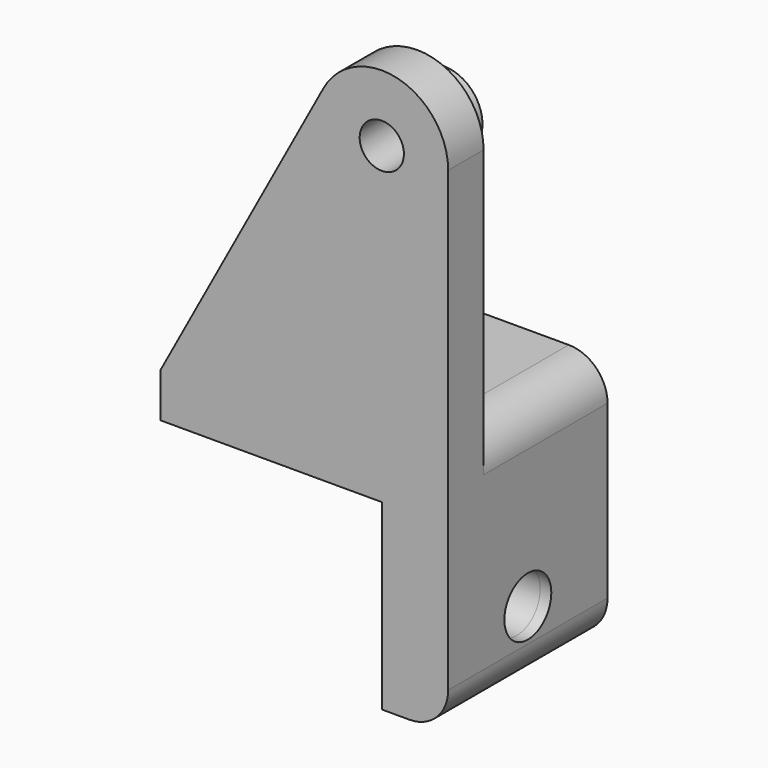
from build123d import *

# Parameters (mm, degrees)
PAD013_DEPTH         = 9
POCKET017_DEPTH      = 14.001
SKETCH042_R          = 3.5
PAD014_DEPTH         = 3
SKETCH044_R          = 2
POCKET018_DEPTH      = 4.001
POCKET018_DEPTH_BACK = 14.001
SKETCH045_R          = 2.65
POCKET019_DEPTH      = 34.351
POCKET019_DEPTH_BACK = 16.501
SKETCH046_R          = 2.65
POCKET020_DEPTH      = 25.001
POCKET020_DEPTH_BACK = 1.001


with BuildPart() as part:
    # Sketch041 → Pad013 (new body, symmetric)
    with BuildSketch(Plane(origin=(0, 0, 0), x_dir=(-1, 0, 0), z_dir=(0, 1, 0))):
        with BuildLine():
            Line((-26, 28.35), (-26, -13))
            ThreePointArc((-26, -13), (-24.974874, -15.474874), (-22.5, -16.5))
            Line((-22.5, -16.5), (-20, -16.5))
            Line((-20, -16.5), (-20, 0))
            Line((-20, 0), (0, 0))
            Line((0, 0), (0, 4))
            Line((0, 4), (-14.723172, 31.205711))
            ThreePointArc((-14.723172, 31.205711), (-21.472928, 34.166398), (-26, 28.35))
        make_face()
    extrude(amount=PAD013_DEPTH, both=True)

    # Sketch043 → Pocket017 (cut, through all)
    with BuildSketch(Plane(origin=(0, -5, 0), x_dir=(-1, 0, 0), z_dir=(0, 1, 0))):
        with BuildLine():
            Line((-26, 2.5), (-26, 40))
            Line((-26, 40), (0, 40))
            Line((0, 40), (0, 6))
            Line((0, 6), (-22.5, 6))
            ThreePointArc((-22.5, 6), (-24.974874, 4.974874), (-26, 2.5))
        make_face()
    extrude(amount=POCKET017_DEPTH, mode=Mode.SUBTRACT)

    # Sketch042 → Pad014 (join)
    with BuildSketch(Plane(origin=(0, -5, 0), x_dir=(-1, 0, 0), z_dir=(0, 1, 0))):
        with Locations((-20, 28.35)):
            Circle(SKETCH042_R)
    extrude(amount=PAD014_DEPTH)

    # Sketch044 → Pocket018 (cut, two sides)
    with BuildSketch(Plane(origin=(0, -5, 0), x_dir=(-1, 0, 0), z_dir=(0, 1, 0))) as pocket018_sk:
        with Locations((-20, 28.35)):
            Circle(SKETCH044_R)
    extrude(amount=-POCKET018_DEPTH, mode=Mode.SUBTRACT)
    extrude(pocket018_sk.sketch, amount=POCKET018_DEPTH_BACK, mode=Mode.SUBTRACT)

    # Sketch045 → Pocket019 (cut, two sides)
    with BuildSketch(Plane(origin=(10, 0, 0), x_dir=(1, 0, 0), z_dir=(0, 0, 1))) as pocket019_sk:
        Circle(SKETCH045_R)
    extrude(amount=POCKET019_DEPTH, mode=Mode.SUBTRACT)
    extrude(pocket019_sk.sketch, amount=-POCKET019_DEPTH_BACK, mode=Mode.SUBTRACT)

    # Sketch046 → Pocket020 (cut, two sides)
    with BuildSketch(Plane(origin=(25, 0, -10), x_dir=(0, 1, 0), z_dir=(1, 0, 0))) as pocket020_sk:
        Circle(SKETCH046_R)
    extrude(amount=-POCKET020_DEPTH, mode=Mode.SUBTRACT)
    extrude(pocket020_sk.sketch, amount=POCKET020_DEPTH_BACK, mode=Mode.SUBTRACT)


with BuildPart() as part_1:
    # Body018 placement: moved
    add(part.part.moved(Location((0, 39, 0))))


solid = part_1.part
